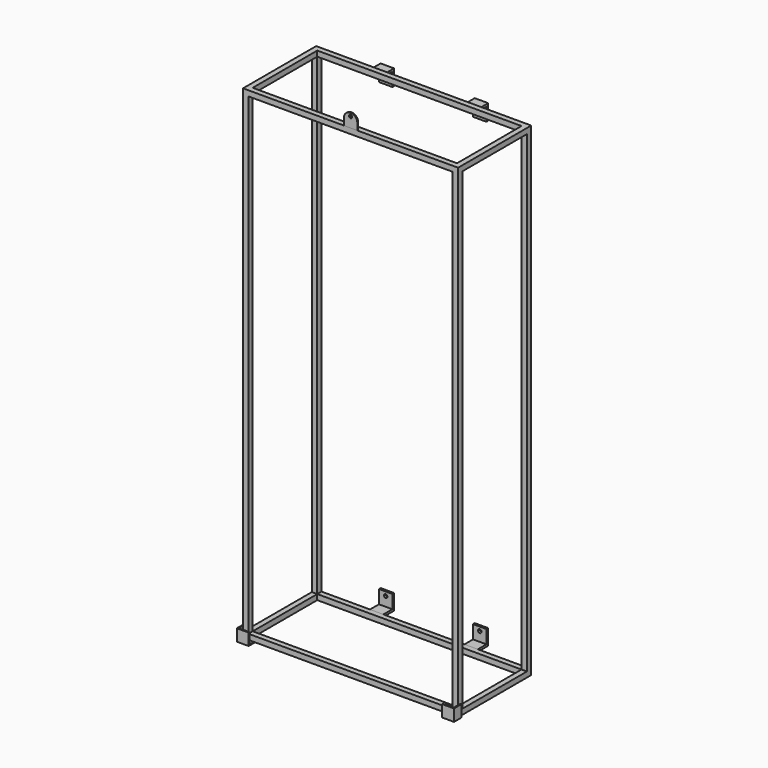
from build123d import *

# Parameters (mm, degrees)
F0_W      = 800
F0_H      = 1800
F0_W_2    = 760
F0_H_2    = 1760
F1_DEPTH  = 20
F2_W      = 20
F2_H      = 20
F3_DEPTH  = 300
F4_W      = 800
F4_H      = 1800
F4_W_2    = 760
F4_H_2    = 1760
F5_DEPTH  = 20
F6_W      = 50
F6_H      = 8
F7_DEPTH  = 50
F8_W      = 50
F8_H      = 8
F9_DEPTH  = 50
F10_W     = 50
F10_H     = 8
F11_DEPTH = 50
F12_W     = 50
F12_H     = 8
F13_DEPTH = 50
F14_R     = 6.5
F15_DEPTH = 25
F16_R     = 6.5
F17_DEPTH = 25
F18_R     = 6.5
F19_DEPTH = 25
F20_R     = 6.5
F21_DEPTH = 25
F22_R     = 6
F23_DEPTH = 4
F25_DEPTH = 10
F26_DEPTH = 20
F27_W     = 44
F27_H     = 44
F28_DEPTH = 4
F30_DEPTH = 10
F31_DEPTH = 20
F32_W     = 44
F32_H     = 44
F33_DEPTH = 4


with BuildPart() as f1:
    # F0 (on Front) → F1 (new body)
    with BuildSketch(Plane.XZ):
        with Locations((362.4222703278, 843.9030997455)):
            Rectangle(F0_W, F0_H)
        with Locations((362.4222703278, 843.9030997455)):
            Rectangle(F0_W_2, F0_H_2, mode=Mode.SUBTRACT)
    extrude(amount=F1_DEPTH)

    # F2 (on face) → F3 (join)
    with BuildSketch(Plane.XZ.offset(20)):
        with Locations((752.4222703278, 1733.9030997455)):
            Rectangle(F2_W, F2_H)
        with Locations((752.4222703278, -46.0969002545)):
            Rectangle(F2_W, F2_H)
        with Locations((-27.5777296722, -46.0969002545)):
            Rectangle(F2_W, F2_H)
        with Locations((-27.5777296722, 1733.9030997455)):
            Rectangle(F2_W, F2_H)
    extrude(amount=F3_DEPTH)

    # F4 (on face) → F5 (join)
    with BuildSketch(Plane.XZ.offset(320)):
        with Locations((362.4222703278, 843.9030997455)):
            Rectangle(F4_W, F4_H)
        with Locations((362.4222703278, 843.9030997455)):
            Rectangle(F4_W_2, F4_H_2, mode=Mode.SUBTRACT)
    extrude(amount=F5_DEPTH)

    # F6 (on face) → F7 (join)
    with BuildSketch(Plane(origin=(0, 0, 0), x_dir=(-1, 0, 0), z_dir=(0, 1, 0))):
        with Locations((-537.4222703278, 1727.9030997455)):
            Rectangle(F6_W, F6_H)
        with Locations((-187.4222703278, 1727.9030997455)):
            Rectangle(F6_W, F6_H)
        with Locations((-537.4222703278, -41.4462356865)):
            Rectangle(F6_W, F6_H)
        with Locations((-187.4222703278, -40.3143025041)):
            Rectangle(F6_W, F6_H)
    extrude(amount=F7_DEPTH)

    # F8 (on face) → F9 (join)
    with BuildSketch(Plane(origin=(0, 0, 1723.9030997455), x_dir=(1, 0, 0), z_dir=(0, 0, -1))):
        with Locations((537.4222703278, -46)):
            Rectangle(F8_W, F8_H)
        with Locations((187.4222703278, -46)):
            Rectangle(F8_W, F8_H)
    extrude(amount=F9_DEPTH)

    # F10 (on face) → F11 (join)
    with BuildSketch(Plane.XY.offset(-36.3143025041)):
        with Locations((187.4222703278, 46)):
            Rectangle(F10_W, F10_H)
    extrude(amount=F11_DEPTH)

    # F12 (on face) → F13 (join)
    with BuildSketch(Plane.XY.offset(-37.4462356865)):
        with Locations((537.4222703278, 46)):
            Rectangle(F12_W, F12_H)
    extrude(amount=F13_DEPTH)

    # F14 (on face) → F15 (cut)
    with BuildSketch(Plane(origin=(0, 50, 0), x_dir=(-1, 0, 0), z_dir=(0, 1, 0))):
        with Locations((-187.4222703278, -1.3143025041)):
            Circle(F14_R)
    extrude(amount=-F15_DEPTH, mode=Mode.SUBTRACT)

    # F16 (on face) → F17 (cut)
    with BuildSketch(Plane(origin=(0, 50, 0), x_dir=(-1, 0, 0), z_dir=(0, 1, 0))):
        with Locations((-537.4222703278, -2.4462356865)):
            Circle(F16_R)
    extrude(amount=-F17_DEPTH, mode=Mode.SUBTRACT)

    # F18 (on face) → F19 (cut)
    with BuildSketch(Plane(origin=(0, 50, 0), x_dir=(-1, 0, 0), z_dir=(0, 1, 0))):
        with Locations((-187.4486728463, 1688.9030765091)):
            Circle(F18_R)
    extrude(amount=-F19_DEPTH, mode=Mode.SUBTRACT)

    # F20 (on face) → F21 (cut)
    with BuildSketch(Plane(origin=(0, 50, 0), x_dir=(-1, 0, 0), z_dir=(0, 1, 0))):
        with Locations((-537.4222703278, 1688.9030997455)):
            Circle(F20_R)
    extrude(amount=-F21_DEPTH, mode=Mode.SUBTRACT)

    # F24 (on face) → F25 (join)
    with BuildSketch(Plane.XZ.offset(340)):
        Polygon((2.4222703278, -56.0969002545), (-37.5777296722, -56.0969002545), (-37.5777296722, -16.0969002545), (-41.5777296722, -16.0969002545), (-41.5777296722, -60.0969002545), (2.4222703278, -60.0969002545), align=None)
    extrude(amount=-F25_DEPTH)

    # F24 (on face) → F26 (join)
    with BuildSketch(Plane.XZ.offset(340)):
        Polygon((2.4222703278, -56.0969002545), (-37.5777296722, -56.0969002545), (-37.5777296722, -16.0969002545), (-41.5777296722, -16.0969002545), (-41.5777296722, -60.0969002545), (2.4222703278, -60.0969002545), align=None)
    extrude(amount=F26_DEPTH)

    # F27 (on face) → F28 (join)
    with BuildSketch(Plane.XZ.offset(360)):
        with Locations((-19.5777296722, -38.0969002545)):
            Rectangle(F27_W, F27_H)
    extrude(amount=F28_DEPTH)

    # F29 (on face) → F30 (join)
    with BuildSketch(Plane.XZ.offset(340)):
        Polygon((762.4222703278, -16.0969002545), (762.4222703278, -56.0969002545), (722.4222703278, -56.0969002545), (722.4222703278, -60.0969002545), (766.4222703278, -60.0969002545), (766.4222703278, -16.0969002545), align=None)
    extrude(amount=-F30_DEPTH)

    # F29 (on face) → F31 (join)
    with BuildSketch(Plane.XZ.offset(340)):
        Polygon((762.4222703278, -16.0969002545), (762.4222703278, -56.0969002545), (722.4222703278, -56.0969002545), (722.4222703278, -60.0969002545), (766.4222703278, -60.0969002545), (766.4222703278, -16.0969002545), align=None)
    extrude(amount=F31_DEPTH)

    # F32 (on face) → F33 (join)
    with BuildSketch(Plane.XZ.offset(360)):
        with Locations((744.4222703278, -38.0969002545)):
            Rectangle(F32_W, F32_H)
    extrude(amount=F33_DEPTH)


with BuildPart() as f23:
    # F22 (on face) → F23 (new body)
    with BuildSketch(Plane.XZ.offset(340)):
        with BuildLine():
            Line((337.4222703278, 1743.9030997455), (362.4222703278, 1743.9030997455))
            Line((362.4222703278, 1743.9030997455), (387.4222703278, 1743.9030997455))
            Line((387.4222703278, 1743.9030997455), (387.4222703278, 1768.9030997455))
            ThreePointArc((387.4222703278, 1768.9030997455), (362.4222703278, 1793.9030997455), (337.4222703278, 1768.9030997455))
            Line((337.4222703278, 1768.9030997455), (337.4222703278, 1743.9030997455))
        make_face()
        with Locations((362.4222703278, 1781.9030997455)):
            Circle(F22_R, mode=Mode.SUBTRACT)
    extrude(amount=-F23_DEPTH)


solid = Compound([f1.part, f23.part])
